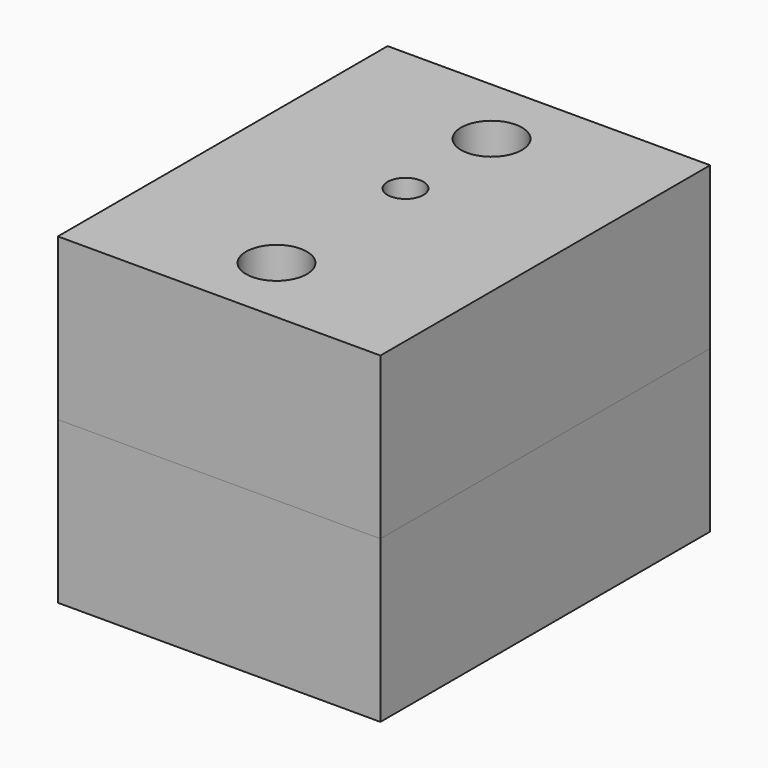
from build123d import *

# Parameters (mm, degrees)
CYLINDER081022_R                               = 5.355
CYLINDER081022_DEPTH                           = 2
CYLINDER081023_R                               = 4
CYLINDER081023_DEPTH                           = 4
CYLINDER081018_R                               = 5.55
CYLINDER081018_DEPTH                           = 2.3
CYLINDER081017_R                               = 4.15
CYLINDER081017_DEPTH                           = 4.2
CYLINDER081020_R                               = 1.7
CYLINDER081020_DEPTH                           = 10
FUSION_PLACEMENT_ANGLE                         = 180
CYLINDER081021_R                               = 1.7
CYLINDER081021_DEPTH                           = 10
FUSION103077013004017008011031_PLACEMENT_ANGLE = 180
CYLINDER_R                                     = 1
CYLINDER_DEPTH                                 = 28
BOX_W                                          = 18
BOX_H                                          = 23
BOX_DEPTH                                      = 9
CYLINDER081027_R                               = 5.55
CYLINDER081027_DEPTH                           = 2.3
CYLINDER081024_R                               = 4.15
CYLINDER081024_DEPTH                           = 4.2
CYLINDER081025_R                               = 1.7
CYLINDER081025_DEPTH                           = 11
CYLINDER081028_R                               = 1.7
CYLINDER081028_DEPTH                           = 11
CYLINDER081026_R                               = 1
CYLINDER081026_DEPTH                           = 28
BOX001_W                                       = 18
BOX001_H                                       = 23
BOX001_DEPTH                                   = 9
CUT006_PLACEMENT_ANGLE                         = 180


with BuildPart() as cylinder081022:
    # Cylinder081022 → Cylinder081022 (new body)
    with BuildSketch(Plane(origin=(0, -2, 9), x_dir=(1, 0, 0), z_dir=(0, -1, 0))):
        Circle(CYLINDER081022_R)
    extrude(amount=CYLINDER081022_DEPTH)


with BuildPart() as cylinder081023:
    # Cylinder081023 → Cylinder081023 (new body)
    with BuildSketch(Plane(origin=(0, 2, 9), x_dir=(1, 0, 0), z_dir=(0, -1, 0))):
        Circle(CYLINDER081023_R)
    extrude(amount=CYLINDER081023_DEPTH)


with BuildPart() as gear:
    # Cone006 → Cone006 (revolve)
    with BuildSketch(Plane(origin=(0, -4, 9), x_dir=(1, 0, 0), z_dir=(0, 0, -1))):
        Polygon((0, 0), (5.31, 0), (3.6, 1.71), (0, 1.71), align=None)
    revolve(axis=Axis((0, -4, 9), (0, -1, 0)))

    # Fusion103077013004017008011033: union Cylinder081022, Cylinder081023
    add(cylinder081022.part)
    add(cylinder081023.part)


with BuildPart() as cylinder081015:
    # Cylinder081018 → Cylinder081018 (new body)
    with BuildSketch(Plane(origin=(0, -2, 9), x_dir=(1, 0, 0), z_dir=(0, -1, 0))):
        Circle(CYLINDER081018_R)
    extrude(amount=CYLINDER081018_DEPTH)


with BuildPart() as cone004:
    # Cone004 → Cone004 (revolve)
    with BuildSketch(Plane(origin=(0, -4.3, 9), x_dir=(1, 0, 0), z_dir=(0, 0, -1))):
        Polygon((0, 0), (5.45, 0), (3.6, 1.71), (0, 1.71), align=None)
    revolve(axis=Axis((0, -4.3, 9), (0, -1, 0)))


with BuildPart() as gear_hole:
    # Cylinder081017 → Cylinder081017 (new body)
    with BuildSketch(Plane(origin=(0, 2.2, 9), x_dir=(1, 0, 0), z_dir=(0, -1, 0))):
        Circle(CYLINDER081017_R)
    extrude(amount=CYLINDER081017_DEPTH)

    # Fusion103077013004017008011034: union Cylinder081015, Cone004
    add(cylinder081015.part)
    add(cone004.part)


with BuildPart() as cone:
    # Cone → Cone (revolve)
    with BuildSketch(Plane(origin=(0, 0, 8.8), x_dir=(1, 0, 0), z_dir=(0, -1, 0))):
        Polygon((0, 0), (1.7, 0), (3.2, 2.2), (0, 2.2), align=None)
    revolve(axis=Axis((0, 0, 8.8), (0, 0, 1)))


with BuildPart() as fusion:
    # Cylinder081020 → Cylinder081020 (new body)
    with BuildSketch(Plane.XY):
        Circle(CYLINDER081020_R)
    extrude(amount=CYLINDER081020_DEPTH)

    # Fusion: union Cone
    add(cone.part)


with BuildPart() as fusion_1:
    # Fusion placement: moved
    add(fusion.part.moved(Location((0, 6, 11))).rotate(Axis((0, 6, 11), (1, 0, 0)), FUSION_PLACEMENT_ANGLE))


with BuildPart() as cone005:
    # Cone005 → Cone005 (revolve)
    with BuildSketch(Plane(origin=(0, 0, 8.8), x_dir=(1, 0, 0), z_dir=(0, -1, 0))):
        Polygon((0, 0), (1.7, 0), (3.2, 2.2), (0, 2.2), align=None)
    revolve(axis=Axis((0, 0, 8.8), (0, 0, 1)))


with BuildPart() as fusion103077013004017008011032:
    # Cylinder081021 → Cylinder081021 (new body)
    with BuildSketch(Plane.XY):
        Circle(CYLINDER081021_R)
    extrude(amount=CYLINDER081021_DEPTH)

    # Fusion103077013004017008011031: union Cone005
    add(cone005.part)


with BuildPart() as fusion103077013004017008011032_1:
    # Fusion103077013004017008011031 placement: moved
    add(fusion103077013004017008011032.part.moved(Location((0, -9, 11))).rotate(Axis((0, -9, 11), (1, 0, 0)), FUSION103077013004017008011031_PLACEMENT_ANGLE))

    # Fusion103077013004017008011032: union Fusion
    add(fusion_1.part)


with BuildPart() as cylinder:
    # Cylinder → Cylinder (new body)
    with BuildSketch(Plane.XY):
        Circle(CYLINDER_R)
    extrude(amount=CYLINDER_DEPTH)


with BuildPart() as countersunk_block:
    # Box → Box (new body)
    with BuildSketch(Plane(origin=(-9, -13, 0), x_dir=(1, 0, 0), z_dir=(0, 0, 1))):
        with Locations((9, 11.5)):
            Rectangle(BOX_W, BOX_H)
    extrude(amount=BOX_DEPTH)

    # Cut: cut Cylinder
    add(cylinder.part, mode=Mode.SUBTRACT)

    # Cut001: cut Fusion103077013004017008011032
    add(fusion103077013004017008011032_1.part, mode=Mode.SUBTRACT)

    # Cut002: cut Gear Hole
    add(gear_hole.part, mode=Mode.SUBTRACT)


with BuildPart() as cylinder081027:
    # Cylinder081027 → Cylinder081027 (new body)
    with BuildSketch(Plane(origin=(0, -2, 9), x_dir=(1, 0, 0), z_dir=(0, -1, 0))):
        Circle(CYLINDER081027_R)
    extrude(amount=CYLINDER081027_DEPTH)


with BuildPart() as cone008:
    # Cone008 → Cone008 (revolve)
    with BuildSketch(Plane(origin=(0, -4.3, 9), x_dir=(1, 0, 0), z_dir=(0, 0, -1))):
        Polygon((0, 0), (5.45, 0), (3.6, 1.71), (0, 1.71), align=None)
    revolve(axis=Axis((0, -4.3, 9), (0, -1, 0)))


with BuildPart() as gear_hole001:
    # Cylinder081024 → Cylinder081024 (new body)
    with BuildSketch(Plane(origin=(0, 2.2, 9), x_dir=(1, 0, 0), z_dir=(0, -1, 0))):
        Circle(CYLINDER081024_R)
    extrude(amount=CYLINDER081024_DEPTH)

    # Fusion103077013004017008011038: union Cylinder081027, Cone008
    add(cylinder081027.part)
    add(cone008.part)


with BuildPart() as cylinder081025:
    # Cylinder081025 → Cylinder081025 (new body)
    with BuildSketch(Plane(origin=(0, 6, -1), x_dir=(1, 0, 0), z_dir=(0, 0, 1))):
        Circle(CYLINDER081025_R)
    extrude(amount=CYLINDER081025_DEPTH)


with BuildPart() as fusion103077013004017008011039:
    # Cylinder081028 → Cylinder081028 (new body)
    with BuildSketch(Plane(origin=(0, -9, -1), x_dir=(1, 0, 0), z_dir=(0, 0, 1))):
        Circle(CYLINDER081028_R)
    extrude(amount=CYLINDER081028_DEPTH)

    # Fusion103077013004017008011039: union Cylinder081025
    add(cylinder081025.part)


with BuildPart() as cylinder081026:
    # Cylinder081026 → Cylinder081026 (new body)
    with BuildSketch(Plane.XY):
        Circle(CYLINDER081026_R)
    extrude(amount=CYLINDER081026_DEPTH)


with BuildPart() as straight_screwhole_block:
    # Box001 → Box001 (new body)
    with BuildSketch(Plane(origin=(-9, -13, 0), x_dir=(1, 0, 0), z_dir=(0, 0, 1))):
        with Locations((9, 11.5)):
            Rectangle(BOX001_W, BOX001_H)
    extrude(amount=BOX001_DEPTH)

    # Cut004: cut Cylinder081026
    add(cylinder081026.part, mode=Mode.SUBTRACT)

    # Cut005: cut Fusion103077013004017008011039
    add(fusion103077013004017008011039.part, mode=Mode.SUBTRACT)

    # Cut006: cut Gear Hole001
    add(gear_hole001.part, mode=Mode.SUBTRACT)


with BuildPart() as straight_screwhole_block_1:
    # Cut006 placement: moved
    add(straight_screwhole_block.part.moved(Location((0, 0, 18))).rotate(Axis((0, 0, 18), (0, 1, 0)), CUT006_PLACEMENT_ANGLE))


solid = Compound([gear.part, countersunk_block.part, straight_screwhole_block_1.part])
